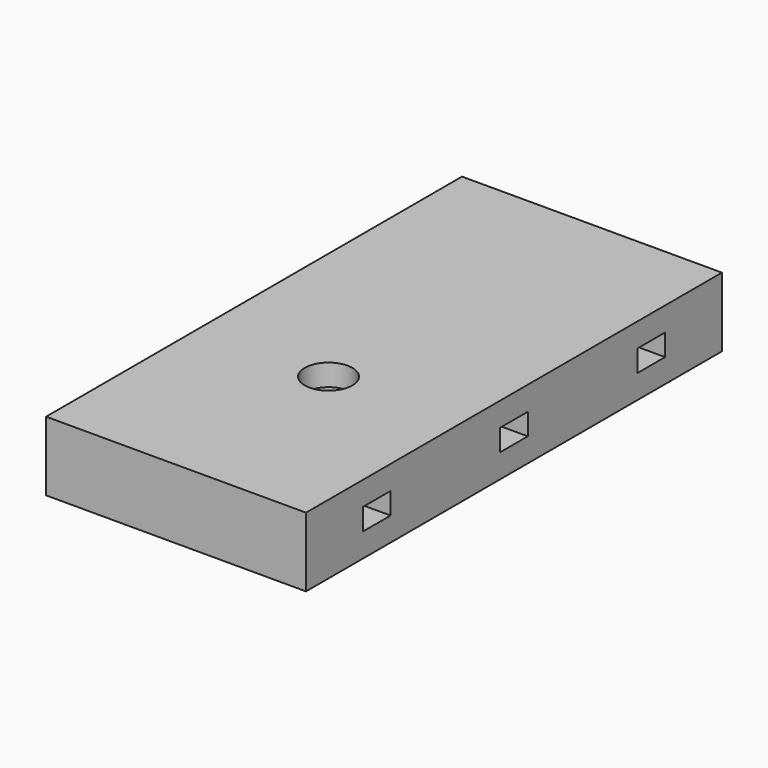
from build123d import *

# Parameters (mm, degrees)
F0_W           = 30
F0_H           = 60
F1_DEPTH       = 8
F2_D           = 5.5
F2_DEPTH       = 30
F2_CBORE_D     = 9
F2_CBORE_DEPTH = 5.5
F2_TIP         = 1.6523667023
F3_W           = 4
F3_H           = 2.5
F4_DEPTH       = 30.001


with BuildPart() as f1:
    # F0 (on Top) → F1 (new body)
    with BuildSketch(Plane.XY):
        Rectangle(F0_W, F0_H)
    extrude(amount=F1_DEPTH)

    # F2
    with Locations(Plane(origin=(0, 0, 0), x_dir=(1, 0, 0), z_dir=(0, 0, -1))):
        with Locations((0, 8)):
            CounterBoreHole(F2_D / 2, F2_CBORE_D / 2, F2_CBORE_DEPTH, depth=F2_DEPTH)
            with Locations((0, 0, -(F2_DEPTH + F2_TIP / 2))):  # 118° drill point
                Cone(0, F2_D / 2, F2_TIP, mode=Mode.SUBTRACT)

    # F3 (on face) → F4 (cut, through all)
    with BuildSketch(Plane(origin=(-15, 0, 0), x_dir=(0, -1, 0), z_dir=(-1, 0, 0))):
        with Locations((-19.8, 4)):
            Rectangle(F3_W, F3_H)
        with Locations((0, 4)):
            Rectangle(F3_W, F3_H)
        with Locations((19.8, 4)):
            Rectangle(F3_W, F3_H)
    extrude(amount=-F4_DEPTH, mode=Mode.SUBTRACT)


solid = f1.part
